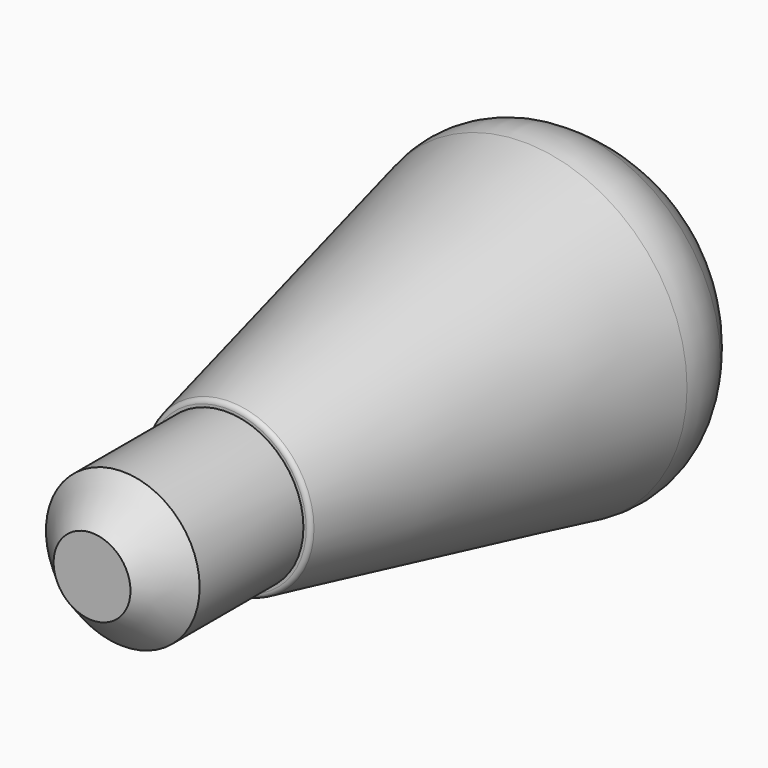
from build123d import *

# Parameters (mm, degrees)
F2_R     = 20.32
F3_DEPTH = 44.45
F4_SIZE  = 10.16


with BuildPart() as f1:
    # F0 (on Top) → F1 (revolve)
    with BuildSketch(Plane.XY):
        with BuildLine():
            Line((0, 134.874), (0, 0))
            Line((0, 0), (21.07151, 0))
            ThreePointArc((21.07151, 0), (21.869837, 0.282289), (22.313269, 1.003664))
            Line((22.313269, 1.003664), (43.164065, 98.218025))
            ThreePointArc((43.164065, 98.218025), (43.302279, 105.498235), (40.69896, 112.298476))
            ThreePointArc((40.69896, 112.298476), (23.270473, 128.852179), (0, 134.874))
        make_face()
    revolve(axis=Axis((0, 67.437, 0), (0, -1, 0)))

    # F2 (on face) → F3 (join)
    with BuildSketch(Plane.XZ):
        Circle(F2_R)
    extrude(amount=F3_DEPTH)

    # F4
    f4_edges = [f1.edges().sort_by_distance(p)[0] for p in [
        (-20.32, -44.45, 0),
    ]]
    chamfer(f4_edges, length=F4_SIZE)


solid = f1.part
